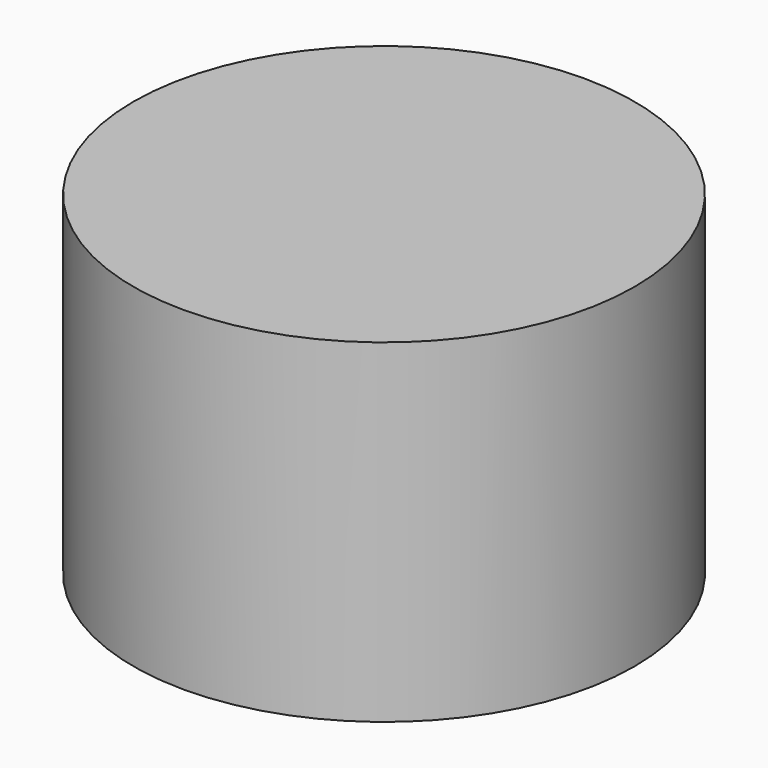
from build123d import *

# Parameters (mm, degrees)
F0_R     = 304.8
F1_DEPTH = 406.4
F2_W     = 139.7
F2_H     = 139.7
F3_DEPTH = 203.2


with BuildPart() as f1:
    # F0 (on Top) → F1 (new body)
    with BuildSketch(Plane.XY):
        Circle(F0_R)
    extrude(amount=F1_DEPTH)

    # F2 (on face) → F3 (cut)
    with BuildSketch(Plane(origin=(0, 0, 0), x_dir=(1, 0, 0), z_dir=(0, 0, -1))):
        Rectangle(F2_W, F2_H)
    extrude(amount=-F3_DEPTH, mode=Mode.SUBTRACT)


solid = f1.part
